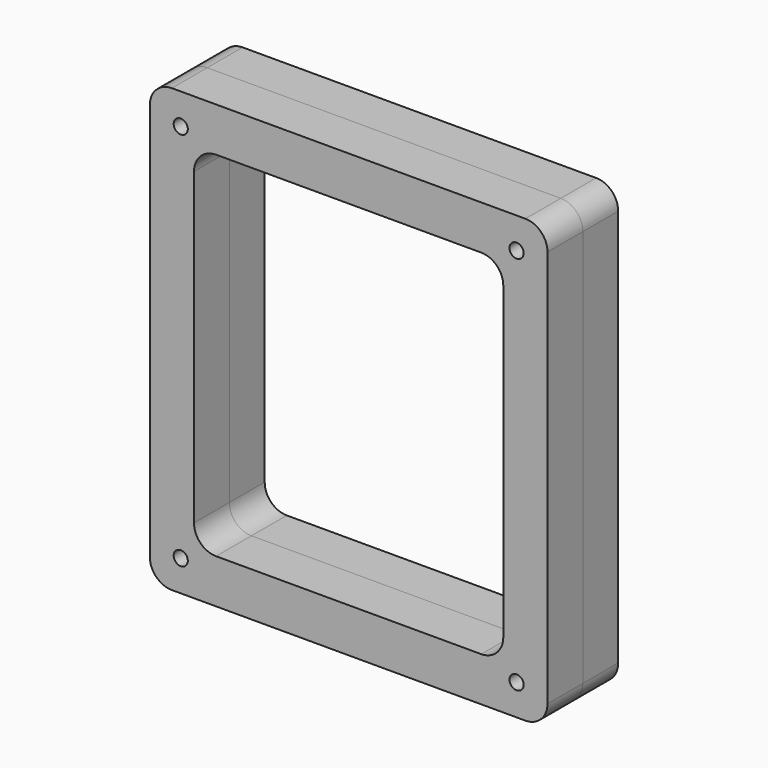
from build123d import *

# Parameters (mm, degrees)
F0_R     = 1.6
F1_DEPTH = 10
F2_DEPTH = 10
F4_DEPTH = 4
F5_DEPTH = 4


with BuildPart() as f1:
    # F0 (on Front) → F1 (new body)
    with BuildSketch(Plane.XZ):
        with BuildLine():
            Line((-40, -50), (40, -50))
            ThreePointArc((40, -50), (43.5355339059, -48.5355339059), (45, -45))
            Line((45, -45), (45, 45))
            ThreePointArc((45, 45), (43.5355339059, 48.5355339059), (40, 50))
            Line((40, 50), (-40, 50))
            ThreePointArc((-40, 50), (-43.5355339059, 48.5355339059), (-45, 45))
            Line((-45, 45), (-45, -45))
            ThreePointArc((-45, -45), (-43.5355339059, -48.5355339059), (-40, -50))
        make_face()
        with BuildLine():
            ThreePointArc((-39.55, -40.3153212483), (-38, -39.9), (-36.45, -40.3153212483))
            ThreePointArc((-36.45, -40.3153212483), (-35.3153212483, -41.45), (-34.9, -43))
            ThreePointArc((-34.9, -43), (-35.3153212483, -44.55), (-36.45, -45.6846787517))
            ThreePointArc((-36.45, -45.6846787517), (-38, -46.1), (-39.55, -45.6846787517))
            ThreePointArc((-39.55, -45.6846787517), (-40.6846787517, -44.55), (-41.1, -43))
            ThreePointArc((-41.1, -43), (-40.6846787517, -41.45), (-39.55, -40.3153212483))
        make_face(mode=Mode.SUBTRACT)
        with BuildLine():
            ThreePointArc((36.45, -40.3153212483), (38, -39.9), (39.55, -40.3153212483))
            ThreePointArc((39.55, -40.3153212483), (40.6846787517, -41.45), (41.1, -43))
            ThreePointArc((41.1, -43), (40.6846787517, -44.55), (39.55, -45.6846787517))
            ThreePointArc((39.55, -45.6846787517), (38, -46.1), (36.45, -45.6846787517))
            ThreePointArc((36.45, -45.6846787517), (35.3153212483, -44.55), (34.9, -43))
            ThreePointArc((34.9, -43), (35.3153212483, -41.45), (36.45, -40.3153212483))
        make_face(mode=Mode.SUBTRACT)
        with BuildLine():
            ThreePointArc((35, -35), (33.5355339059, -38.5355339059), (30, -40))
            Line((30, -40), (-30, -40))
            ThreePointArc((-30, -40), (-33.5355339059, -38.5355339059), (-35, -35))
            Line((-35, -35), (-35, 35))
            ThreePointArc((-35, 35), (-33.5355339059, 38.5355339059), (-30, 40))
            Line((-30, 40), (30, 40))
            ThreePointArc((30, 40), (33.5355339059, 38.5355339059), (35, 35))
            Line((35, 35), (35, -35))
        make_face(mode=Mode.SUBTRACT)
        with BuildLine():
            ThreePointArc((-36.45, 45.6846787517), (-35.3153212483, 44.55), (-34.9, 43))
            ThreePointArc((-34.9, 43), (-35.3153212483, 41.45), (-36.45, 40.3153212483))
            ThreePointArc((-36.45, 40.3153212483), (-38, 39.9), (-39.55, 40.3153212483))
            ThreePointArc((-39.55, 40.3153212483), (-40.6846787517, 41.45), (-41.1, 43))
            ThreePointArc((-41.1, 43), (-40.6846787517, 44.55), (-39.55, 45.6846787517))
            ThreePointArc((-39.55, 45.6846787517), (-38, 46.1), (-36.45, 45.6846787517))
        make_face(mode=Mode.SUBTRACT)
        with BuildLine():
            ThreePointArc((39.55, 45.6846787517), (40.6846787517, 44.55), (41.1, 43))
            ThreePointArc((41.1, 43), (40.6846787517, 41.45), (39.55, 40.3153212483))
            ThreePointArc((39.55, 40.3153212483), (38, 39.9), (36.45, 40.3153212483))
            ThreePointArc((36.45, 40.3153212483), (35.3153212483, 41.45), (34.9, 43))
            ThreePointArc((34.9, 43), (35.3153212483, 44.55), (36.45, 45.6846787517))
            ThreePointArc((36.45, 45.6846787517), (38, 46.1), (39.55, 45.6846787517))
        make_face(mode=Mode.SUBTRACT)
        with BuildLine():
            ThreePointArc((-36.45, 40.3153212483), (-35.3153212483, 41.45), (-34.9, 43))
            Line((-34.9, 43), (-36.45, 40.3153212483))
        make_face()
        Polygon((-36.45, 40.3153212483), (-34.9, 43), (-36.45, 45.6846787517), (-39.55, 45.6846787517), (-41.1, 43), (-39.55, 40.3153212483), align=None)
        with Locations((-38, 43)):
            Circle(F0_R, mode=Mode.SUBTRACT)
        with BuildLine():
            Line((-36.45, 45.6846787517), (-34.9, 43))
            ThreePointArc((-34.9, 43), (-35.3153212483, 44.55), (-36.45, 45.6846787517))
        make_face()
        with BuildLine():
            Line((-39.55, 45.6846787517), (-36.45, 45.6846787517))
            ThreePointArc((-36.45, 45.6846787517), (-38, 46.1), (-39.55, 45.6846787517))
        make_face()
        with BuildLine():
            Line((-41.1, 43), (-39.55, 45.6846787517))
            ThreePointArc((-39.55, 45.6846787517), (-40.6846787517, 44.55), (-41.1, 43))
        make_face()
        with BuildLine():
            ThreePointArc((-41.1, 43), (-40.6846787517, 41.45), (-39.55, 40.3153212483))
            Line((-39.55, 40.3153212483), (-41.1, 43))
        make_face()
        with BuildLine():
            ThreePointArc((-39.55, 40.3153212483), (-38, 39.9), (-36.45, 40.3153212483))
            Line((-36.45, 40.3153212483), (-39.55, 40.3153212483))
        make_face()
        with BuildLine():
            Line((39.55, 45.6846787517), (41.1, 43))
            ThreePointArc((41.1, 43), (40.6846787517, 44.55), (39.55, 45.6846787517))
        make_face()
        Polygon((39.55, 40.3153212483), (41.1, 43), (39.55, 45.6846787517), (36.45, 45.6846787517), (34.9, 43), (36.45, 40.3153212483), align=None)
        with Locations((38, 43)):
            Circle(F0_R, mode=Mode.SUBTRACT)
        with BuildLine():
            ThreePointArc((34.9, 43), (35.3153212483, 41.45), (36.45, 40.3153212483))
            Line((36.45, 40.3153212483), (34.9, 43))
        make_face()
        with BuildLine():
            ThreePointArc((36.45, 40.3153212483), (38, 39.9), (39.55, 40.3153212483))
            Line((39.55, 40.3153212483), (36.45, 40.3153212483))
        make_face()
        with BuildLine():
            Line((36.45, 45.6846787517), (39.55, 45.6846787517))
            ThreePointArc((39.55, 45.6846787517), (38, 46.1), (36.45, 45.6846787517))
        make_face()
        with BuildLine():
            ThreePointArc((39.55, 40.3153212483), (40.6846787517, 41.45), (41.1, 43))
            Line((41.1, 43), (39.55, 40.3153212483))
        make_face()
        with BuildLine():
            Line((34.9, 43), (36.45, 45.6846787517))
            ThreePointArc((36.45, 45.6846787517), (35.3153212483, 44.55), (34.9, 43))
        make_face()
        Polygon((41.1, -43), (39.55, -40.3153212483), (36.45, -40.3153212483), (34.9, -43), (36.45, -45.6846787517), (39.55, -45.6846787517), align=None)
        with Locations((38, -43)):
            Circle(F0_R, mode=Mode.SUBTRACT)
        with BuildLine():
            ThreePointArc((39.55, -45.6846787517), (40.6846787517, -44.55), (41.1, -43))
            Line((41.1, -43), (39.55, -45.6846787517))
        make_face()
        with BuildLine():
            Line((34.9, -43), (36.45, -40.3153212483))
            ThreePointArc((36.45, -40.3153212483), (35.3153212483, -41.45), (34.9, -43))
        make_face()
        with BuildLine():
            ThreePointArc((36.45, -45.6846787517), (38, -46.1), (39.55, -45.6846787517))
            Line((39.55, -45.6846787517), (36.45, -45.6846787517))
        make_face()
        with BuildLine():
            Line((36.45, -45.6846787517), (34.9, -43))
            ThreePointArc((34.9, -43), (35.3153212483, -44.55), (36.45, -45.6846787517))
        make_face()
        with BuildLine():
            Line((36.45, -40.3153212483), (39.55, -40.3153212483))
            ThreePointArc((39.55, -40.3153212483), (38, -39.9), (36.45, -40.3153212483))
        make_face()
        with BuildLine():
            ThreePointArc((41.1, -43), (40.6846787517, -41.45), (39.55, -40.3153212483))
            Line((39.55, -40.3153212483), (41.1, -43))
        make_face()
        Polygon((-34.9, -43), (-36.45, -40.3153212483), (-39.55, -40.3153212483), (-41.1, -43), (-39.55, -45.6846787517), (-36.45, -45.6846787517), align=None)
        with Locations((-38, -43)):
            Circle(F0_R, mode=Mode.SUBTRACT)
        with BuildLine():
            ThreePointArc((-39.55, -45.6846787517), (-38, -46.1), (-36.45, -45.6846787517))
            Line((-36.45, -45.6846787517), (-39.55, -45.6846787517))
        make_face()
        with BuildLine():
            ThreePointArc((-36.45, -45.6846787517), (-35.3153212483, -44.55), (-34.9, -43))
            Line((-34.9, -43), (-36.45, -45.6846787517))
        make_face()
        with BuildLine():
            Line((-39.55, -45.6846787517), (-41.1, -43))
            ThreePointArc((-41.1, -43), (-40.6846787517, -44.55), (-39.55, -45.6846787517))
        make_face()
        with BuildLine():
            Line((-41.1, -43), (-39.55, -40.3153212483))
            ThreePointArc((-39.55, -40.3153212483), (-40.6846787517, -41.45), (-41.1, -43))
        make_face()
        with BuildLine():
            Line((-39.55, -40.3153212483), (-36.45, -40.3153212483))
            ThreePointArc((-36.45, -40.3153212483), (-38, -39.9), (-39.55, -40.3153212483))
        make_face()
        with BuildLine():
            ThreePointArc((-34.9, -43), (-35.3153212483, -41.45), (-36.45, -40.3153212483))
            Line((-36.45, -40.3153212483), (-34.9, -43))
        make_face()
    extrude(amount=F1_DEPTH)

    # F0 (on Front) → F5 (cut)
    with BuildSketch(Plane.XZ):
        Polygon((41.1, -43), (39.55, -40.3153212483), (36.45, -40.3153212483), (34.9, -43), (36.45, -45.6846787517), (39.55, -45.6846787517), align=None)
        with Locations((38, -43)):
            Circle(F0_R, mode=Mode.SUBTRACT)
        with BuildLine():
            Line((36.45, -40.3153212483), (39.55, -40.3153212483))
            ThreePointArc((39.55, -40.3153212483), (38, -39.9), (36.45, -40.3153212483))
        make_face()
        with BuildLine():
            ThreePointArc((41.1, -43), (40.6846787517, -41.45), (39.55, -40.3153212483))
            Line((39.55, -40.3153212483), (41.1, -43))
        make_face()
        with BuildLine():
            ThreePointArc((39.55, -45.6846787517), (40.6846787517, -44.55), (41.1, -43))
            Line((41.1, -43), (39.55, -45.6846787517))
        make_face()
        with BuildLine():
            ThreePointArc((36.45, -45.6846787517), (38, -46.1), (39.55, -45.6846787517))
            Line((39.55, -45.6846787517), (36.45, -45.6846787517))
        make_face()
        with BuildLine():
            Line((36.45, -45.6846787517), (34.9, -43))
            ThreePointArc((34.9, -43), (35.3153212483, -44.55), (36.45, -45.6846787517))
        make_face()
        with BuildLine():
            Line((34.9, -43), (36.45, -40.3153212483))
            ThreePointArc((36.45, -40.3153212483), (35.3153212483, -41.45), (34.9, -43))
        make_face()
        with BuildLine():
            Line((-39.55, -45.6846787517), (-41.1, -43))
            ThreePointArc((-41.1, -43), (-40.6846787517, -44.55), (-39.55, -45.6846787517))
        make_face()
        with BuildLine():
            ThreePointArc((-39.55, -45.6846787517), (-38, -46.1), (-36.45, -45.6846787517))
            Line((-36.45, -45.6846787517), (-39.55, -45.6846787517))
        make_face()
        with BuildLine():
            ThreePointArc((-36.45, -45.6846787517), (-35.3153212483, -44.55), (-34.9, -43))
            Line((-34.9, -43), (-36.45, -45.6846787517))
        make_face()
        with BuildLine():
            ThreePointArc((-34.9, -43), (-35.3153212483, -41.45), (-36.45, -40.3153212483))
            Line((-36.45, -40.3153212483), (-34.9, -43))
        make_face()
        with BuildLine():
            Line((-39.55, -40.3153212483), (-36.45, -40.3153212483))
            ThreePointArc((-36.45, -40.3153212483), (-38, -39.9), (-39.55, -40.3153212483))
        make_face()
        with BuildLine():
            Line((-41.1, -43), (-39.55, -40.3153212483))
            ThreePointArc((-39.55, -40.3153212483), (-40.6846787517, -41.45), (-41.1, -43))
        make_face()
        Polygon((-34.9, -43), (-36.45, -40.3153212483), (-39.55, -40.3153212483), (-41.1, -43), (-39.55, -45.6846787517), (-36.45, -45.6846787517), align=None)
        with Locations((-38, -43)):
            Circle(F0_R, mode=Mode.SUBTRACT)
        with BuildLine():
            ThreePointArc((-39.55, 40.3153212483), (-38, 39.9), (-36.45, 40.3153212483))
            Line((-36.45, 40.3153212483), (-39.55, 40.3153212483))
        make_face()
        with BuildLine():
            ThreePointArc((-36.45, 40.3153212483), (-35.3153212483, 41.45), (-34.9, 43))
            Line((-34.9, 43), (-36.45, 40.3153212483))
        make_face()
        with BuildLine():
            Line((-36.45, 45.6846787517), (-34.9, 43))
            ThreePointArc((-34.9, 43), (-35.3153212483, 44.55), (-36.45, 45.6846787517))
        make_face()
        with BuildLine():
            Line((-39.55, 45.6846787517), (-36.45, 45.6846787517))
            ThreePointArc((-36.45, 45.6846787517), (-38, 46.1), (-39.55, 45.6846787517))
        make_face()
        with BuildLine():
            Line((-41.1, 43), (-39.55, 45.6846787517))
            ThreePointArc((-39.55, 45.6846787517), (-40.6846787517, 44.55), (-41.1, 43))
        make_face()
        with BuildLine():
            ThreePointArc((-41.1, 43), (-40.6846787517, 41.45), (-39.55, 40.3153212483))
            Line((-39.55, 40.3153212483), (-41.1, 43))
        make_face()
        Polygon((-36.45, 40.3153212483), (-34.9, 43), (-36.45, 45.6846787517), (-39.55, 45.6846787517), (-41.1, 43), (-39.55, 40.3153212483), align=None)
        with Locations((-38, 43)):
            Circle(F0_R, mode=Mode.SUBTRACT)
        with BuildLine():
            ThreePointArc((34.9, 43), (35.3153212483, 41.45), (36.45, 40.3153212483))
            Line((36.45, 40.3153212483), (34.9, 43))
        make_face()
        with BuildLine():
            ThreePointArc((36.45, 40.3153212483), (38, 39.9), (39.55, 40.3153212483))
            Line((39.55, 40.3153212483), (36.45, 40.3153212483))
        make_face()
        with BuildLine():
            ThreePointArc((39.55, 40.3153212483), (40.6846787517, 41.45), (41.1, 43))
            Line((41.1, 43), (39.55, 40.3153212483))
        make_face()
        with BuildLine():
            Line((39.55, 45.6846787517), (41.1, 43))
            ThreePointArc((41.1, 43), (40.6846787517, 44.55), (39.55, 45.6846787517))
        make_face()
        with BuildLine():
            Line((36.45, 45.6846787517), (39.55, 45.6846787517))
            ThreePointArc((39.55, 45.6846787517), (38, 46.1), (36.45, 45.6846787517))
        make_face()
        with BuildLine():
            Line((34.9, 43), (36.45, 45.6846787517))
            ThreePointArc((36.45, 45.6846787517), (35.3153212483, 44.55), (34.9, 43))
        make_face()
        Polygon((39.55, 40.3153212483), (41.1, 43), (39.55, 45.6846787517), (36.45, 45.6846787517), (34.9, 43), (36.45, 40.3153212483), align=None)
        with Locations((38, 43)):
            Circle(F0_R, mode=Mode.SUBTRACT)
    extrude(amount=F5_DEPTH, mode=Mode.SUBTRACT)


with BuildPart() as f2:
    # F0 (on Front) → F2 (new body)
    with BuildSketch(Plane.XZ):
        with BuildLine():
            Line((-40, -50), (40, -50))
            ThreePointArc((40, -50), (43.5355339059, -48.5355339059), (45, -45))
            Line((45, -45), (45, 45))
            ThreePointArc((45, 45), (43.5355339059, 48.5355339059), (40, 50))
            Line((40, 50), (-40, 50))
            ThreePointArc((-40, 50), (-43.5355339059, 48.5355339059), (-45, 45))
            Line((-45, 45), (-45, -45))
            ThreePointArc((-45, -45), (-43.5355339059, -48.5355339059), (-40, -50))
        make_face()
        with BuildLine():
            ThreePointArc((-39.55, -40.3153212483), (-38, -39.9), (-36.45, -40.3153212483))
            ThreePointArc((-36.45, -40.3153212483), (-35.3153212483, -41.45), (-34.9, -43))
            ThreePointArc((-34.9, -43), (-35.3153212483, -44.55), (-36.45, -45.6846787517))
            ThreePointArc((-36.45, -45.6846787517), (-38, -46.1), (-39.55, -45.6846787517))
            ThreePointArc((-39.55, -45.6846787517), (-40.6846787517, -44.55), (-41.1, -43))
            ThreePointArc((-41.1, -43), (-40.6846787517, -41.45), (-39.55, -40.3153212483))
        make_face(mode=Mode.SUBTRACT)
        with BuildLine():
            ThreePointArc((36.45, -40.3153212483), (38, -39.9), (39.55, -40.3153212483))
            ThreePointArc((39.55, -40.3153212483), (40.6846787517, -41.45), (41.1, -43))
            ThreePointArc((41.1, -43), (40.6846787517, -44.55), (39.55, -45.6846787517))
            ThreePointArc((39.55, -45.6846787517), (38, -46.1), (36.45, -45.6846787517))
            ThreePointArc((36.45, -45.6846787517), (35.3153212483, -44.55), (34.9, -43))
            ThreePointArc((34.9, -43), (35.3153212483, -41.45), (36.45, -40.3153212483))
        make_face(mode=Mode.SUBTRACT)
        with BuildLine():
            ThreePointArc((35, -35), (33.5355339059, -38.5355339059), (30, -40))
            Line((30, -40), (-30, -40))
            ThreePointArc((-30, -40), (-33.5355339059, -38.5355339059), (-35, -35))
            Line((-35, -35), (-35, 35))
            ThreePointArc((-35, 35), (-33.5355339059, 38.5355339059), (-30, 40))
            Line((-30, 40), (30, 40))
            ThreePointArc((30, 40), (33.5355339059, 38.5355339059), (35, 35))
            Line((35, 35), (35, -35))
        make_face(mode=Mode.SUBTRACT)
        with BuildLine():
            ThreePointArc((-36.45, 45.6846787517), (-35.3153212483, 44.55), (-34.9, 43))
            ThreePointArc((-34.9, 43), (-35.3153212483, 41.45), (-36.45, 40.3153212483))
            ThreePointArc((-36.45, 40.3153212483), (-38, 39.9), (-39.55, 40.3153212483))
            ThreePointArc((-39.55, 40.3153212483), (-40.6846787517, 41.45), (-41.1, 43))
            ThreePointArc((-41.1, 43), (-40.6846787517, 44.55), (-39.55, 45.6846787517))
            ThreePointArc((-39.55, 45.6846787517), (-38, 46.1), (-36.45, 45.6846787517))
        make_face(mode=Mode.SUBTRACT)
        with BuildLine():
            ThreePointArc((39.55, 45.6846787517), (40.6846787517, 44.55), (41.1, 43))
            ThreePointArc((41.1, 43), (40.6846787517, 41.45), (39.55, 40.3153212483))
            ThreePointArc((39.55, 40.3153212483), (38, 39.9), (36.45, 40.3153212483))
            ThreePointArc((36.45, 40.3153212483), (35.3153212483, 41.45), (34.9, 43))
            ThreePointArc((34.9, 43), (35.3153212483, 44.55), (36.45, 45.6846787517))
            ThreePointArc((36.45, 45.6846787517), (38, 46.1), (39.55, 45.6846787517))
        make_face(mode=Mode.SUBTRACT)
        Polygon((41.1, -43), (39.55, -40.3153212483), (36.45, -40.3153212483), (34.9, -43), (36.45, -45.6846787517), (39.55, -45.6846787517), align=None)
        with Locations((38, -43)):
            Circle(F0_R, mode=Mode.SUBTRACT)
        Polygon((-34.9, -43), (-36.45, -40.3153212483), (-39.55, -40.3153212483), (-41.1, -43), (-39.55, -45.6846787517), (-36.45, -45.6846787517), align=None)
        with Locations((-38, -43)):
            Circle(F0_R, mode=Mode.SUBTRACT)
        Polygon((39.55, 40.3153212483), (41.1, 43), (39.55, 45.6846787517), (36.45, 45.6846787517), (34.9, 43), (36.45, 40.3153212483), align=None)
        with Locations((38, 43)):
            Circle(F0_R, mode=Mode.SUBTRACT)
        Polygon((-36.45, 40.3153212483), (-34.9, 43), (-36.45, 45.6846787517), (-39.55, 45.6846787517), (-41.1, 43), (-39.55, 40.3153212483), align=None)
        with Locations((-38, 43)):
            Circle(F0_R, mode=Mode.SUBTRACT)
        with BuildLine():
            ThreePointArc((-39.55, 40.3153212483), (-38, 39.9), (-36.45, 40.3153212483))
            Line((-36.45, 40.3153212483), (-39.55, 40.3153212483))
        make_face()
        with BuildLine():
            ThreePointArc((-41.1, 43), (-40.6846787517, 41.45), (-39.55, 40.3153212483))
            Line((-39.55, 40.3153212483), (-41.1, 43))
        make_face()
        with BuildLine():
            Line((36.45, -45.6846787517), (34.9, -43))
            ThreePointArc((34.9, -43), (35.3153212483, -44.55), (36.45, -45.6846787517))
        make_face()
        with BuildLine():
            Line((34.9, 43), (36.45, 45.6846787517))
            ThreePointArc((36.45, 45.6846787517), (35.3153212483, 44.55), (34.9, 43))
        make_face()
        with BuildLine():
            Line((-41.1, -43), (-39.55, -40.3153212483))
            ThreePointArc((-39.55, -40.3153212483), (-40.6846787517, -41.45), (-41.1, -43))
        make_face()
        with BuildLine():
            ThreePointArc((36.45, 40.3153212483), (38, 39.9), (39.55, 40.3153212483))
            Line((39.55, 40.3153212483), (36.45, 40.3153212483))
        make_face()
        with BuildLine():
            Line((-41.1, 43), (-39.55, 45.6846787517))
            ThreePointArc((-39.55, 45.6846787517), (-40.6846787517, 44.55), (-41.1, 43))
        make_face()
        with BuildLine():
            Line((36.45, 45.6846787517), (39.55, 45.6846787517))
            ThreePointArc((39.55, 45.6846787517), (38, 46.1), (36.45, 45.6846787517))
        make_face()
        with BuildLine():
            ThreePointArc((36.45, -45.6846787517), (38, -46.1), (39.55, -45.6846787517))
            Line((39.55, -45.6846787517), (36.45, -45.6846787517))
        make_face()
        with BuildLine():
            Line((-39.55, 45.6846787517), (-36.45, 45.6846787517))
            ThreePointArc((-36.45, 45.6846787517), (-38, 46.1), (-39.55, 45.6846787517))
        make_face()
        with BuildLine():
            Line((36.45, -40.3153212483), (39.55, -40.3153212483))
            ThreePointArc((39.55, -40.3153212483), (38, -39.9), (36.45, -40.3153212483))
        make_face()
        with BuildLine():
            ThreePointArc((-39.55, -45.6846787517), (-38, -46.1), (-36.45, -45.6846787517))
            Line((-36.45, -45.6846787517), (-39.55, -45.6846787517))
        make_face()
        with BuildLine():
            Line((39.55, 45.6846787517), (41.1, 43))
            ThreePointArc((41.1, 43), (40.6846787517, 44.55), (39.55, 45.6846787517))
        make_face()
        with BuildLine():
            ThreePointArc((34.9, 43), (35.3153212483, 41.45), (36.45, 40.3153212483))
            Line((36.45, 40.3153212483), (34.9, 43))
        make_face()
        with BuildLine():
            Line((-39.55, -45.6846787517), (-41.1, -43))
            ThreePointArc((-41.1, -43), (-40.6846787517, -44.55), (-39.55, -45.6846787517))
        make_face()
        with BuildLine():
            ThreePointArc((39.55, 40.3153212483), (40.6846787517, 41.45), (41.1, 43))
            Line((41.1, 43), (39.55, 40.3153212483))
        make_face()
        with BuildLine():
            ThreePointArc((39.55, -45.6846787517), (40.6846787517, -44.55), (41.1, -43))
            Line((41.1, -43), (39.55, -45.6846787517))
        make_face()
        with BuildLine():
            ThreePointArc((-36.45, -45.6846787517), (-35.3153212483, -44.55), (-34.9, -43))
            Line((-34.9, -43), (-36.45, -45.6846787517))
        make_face()
        with BuildLine():
            ThreePointArc((-36.45, 40.3153212483), (-35.3153212483, 41.45), (-34.9, 43))
            Line((-34.9, 43), (-36.45, 40.3153212483))
        make_face()
        with BuildLine():
            ThreePointArc((-34.9, -43), (-35.3153212483, -41.45), (-36.45, -40.3153212483))
            Line((-36.45, -40.3153212483), (-34.9, -43))
        make_face()
        with BuildLine():
            ThreePointArc((41.1, -43), (40.6846787517, -41.45), (39.55, -40.3153212483))
            Line((39.55, -40.3153212483), (41.1, -43))
        make_face()
        with BuildLine():
            Line((-36.45, 45.6846787517), (-34.9, 43))
            ThreePointArc((-34.9, 43), (-35.3153212483, 44.55), (-36.45, 45.6846787517))
        make_face()
        with BuildLine():
            Line((-39.55, -40.3153212483), (-36.45, -40.3153212483))
            ThreePointArc((-36.45, -40.3153212483), (-38, -39.9), (-39.55, -40.3153212483))
        make_face()
        with BuildLine():
            Line((34.9, -43), (36.45, -40.3153212483))
            ThreePointArc((36.45, -40.3153212483), (35.3153212483, -41.45), (34.9, -43))
        make_face()
    extrude(amount=-F2_DEPTH)

    # F0 (on Front) → F4 (cut)
    with BuildSketch(Plane.XZ):
        Polygon((41.1, -43), (39.55, -40.3153212483), (36.45, -40.3153212483), (34.9, -43), (36.45, -45.6846787517), (39.55, -45.6846787517), align=None)
        with Locations((38, -43)):
            Circle(F0_R, mode=Mode.SUBTRACT)
        Polygon((-34.9, -43), (-36.45, -40.3153212483), (-39.55, -40.3153212483), (-41.1, -43), (-39.55, -45.6846787517), (-36.45, -45.6846787517), align=None)
        with Locations((-38, -43)):
            Circle(F0_R, mode=Mode.SUBTRACT)
        Polygon((-36.45, 40.3153212483), (-34.9, 43), (-36.45, 45.6846787517), (-39.55, 45.6846787517), (-41.1, 43), (-39.55, 40.3153212483), align=None)
        with Locations((-38, 43)):
            Circle(F0_R, mode=Mode.SUBTRACT)
        Polygon((39.55, 40.3153212483), (41.1, 43), (39.55, 45.6846787517), (36.45, 45.6846787517), (34.9, 43), (36.45, 40.3153212483), align=None)
        with Locations((38, 43)):
            Circle(F0_R, mode=Mode.SUBTRACT)
    extrude(amount=-F4_DEPTH, mode=Mode.SUBTRACT)


solid = Compound([f1.part, f2.part])
